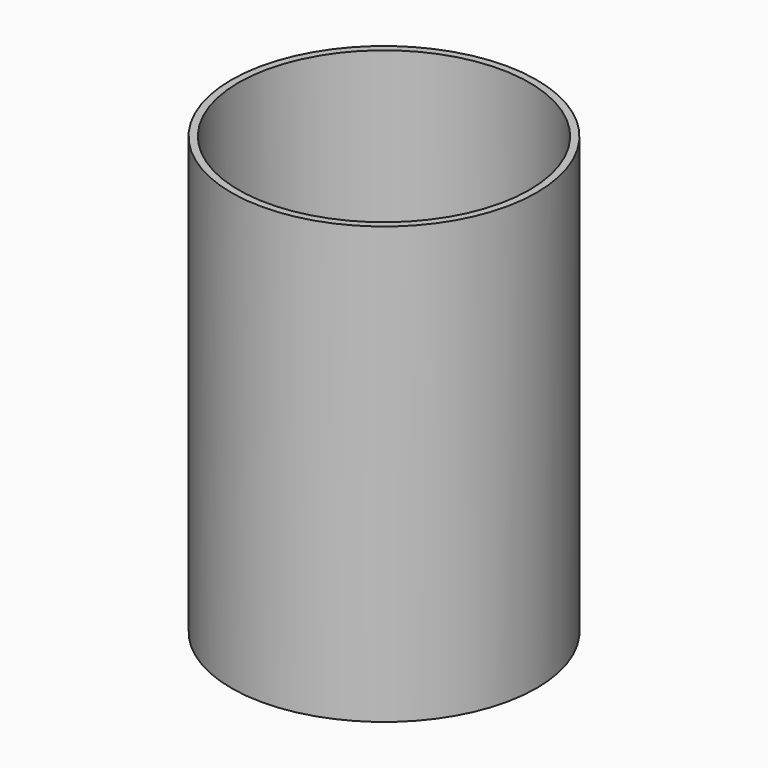
from build123d import *

# Parameters (mm, degrees)
F0_W   = 50.8
F0_H   = 152.4
F0_W_2 = 2.54
F2_T   = -2.54


with BuildPart() as f1:
    # F0 (on Front) → F1 (revolve)
    with BuildSketch(Plane.XZ):
        with Locations((28.376226, 76.2)):
            Rectangle(F0_W, F0_H)
        with Locations((55.046226, 76.2)):
            Rectangle(F0_W_2, F0_H)
    revolve(axis=Axis((2.976226, 0, 76.2), (0, 0, 1)))

    # F2
    f2_openings = [f1.faces().sort_by_distance(p)[0] for p in [
        (2.976226, 0, 152.4),
    ]]
    offset(amount=F2_T, openings=f2_openings)


solid = f1.part
